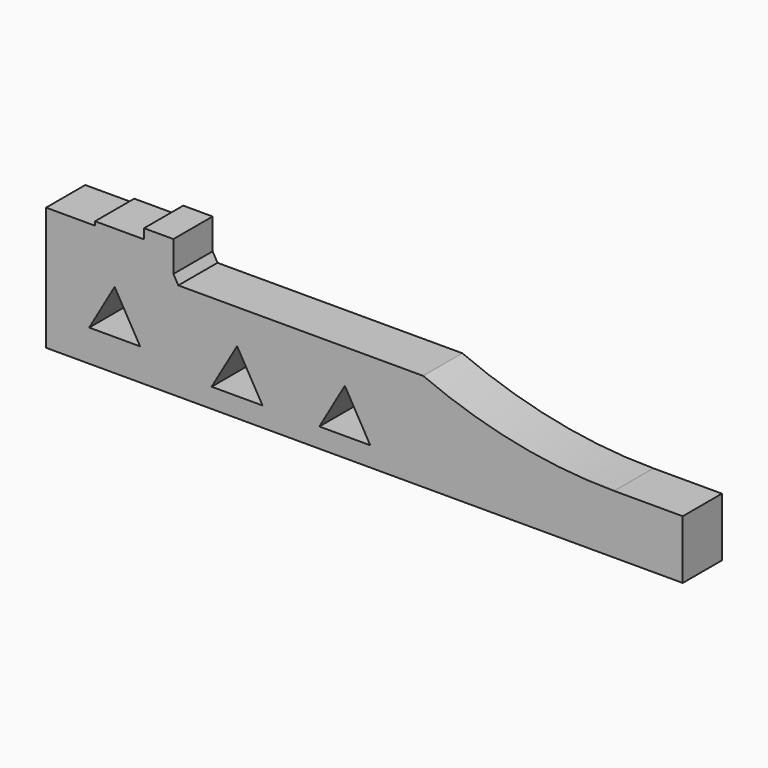
from build123d import *

# Parameters (mm, degrees)
PAD_DEPTH = 2.5


with BuildPart() as part:
    # Sketch → Pad (new body, symmetric)
    with BuildSketch(Plane.XZ):
        with BuildLine():
            Line((0, 0), (0, 6))
            Line((0, 6), (-7, 6))
            ThreePointArc((-26.5, 10), (-16.953015, 7.010304), (-7, 6))
            Line((-51.5, 10), (-26.5, 10))
            Line((-52, 10.866025), (-51.5, 10))
            Line((-52, 10.866025), (-52, 14))
            Line((-55, 14), (-52, 14))
            Line((-55, 14), (-55, 13))
            Line((-55, 13), (-60, 13))
            Line((-60, 13), (-60, 12.6))
            Line((-60, 12.6), (-65, 12.6))
            Line((-65, 12.6), (-65, 0))
            Line((-65, 0), (0, 0))
        make_face()
        Polygon((-42.901924, 2), (-45.5, 6.5), (-48.098076, 2), align=None, mode=Mode.SUBTRACT)
        Polygon((-34.5, 6.5), (-37.098076, 2), (-31.901924, 2), align=None, mode=Mode.SUBTRACT)
        Polygon((-55.401924, 3.25), (-58, 7.75), (-60.598076, 3.25), align=None, mode=Mode.SUBTRACT)
    extrude(amount=PAD_DEPTH, both=True)


solid = part.part
